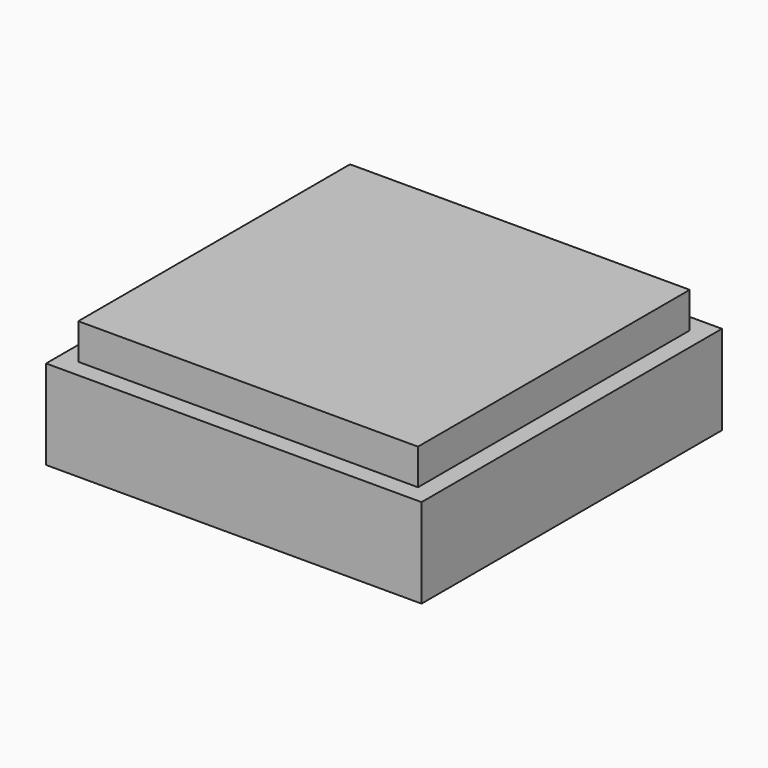
from build123d import *

# Parameters (mm, degrees)
SKETCH_W     = 42
SKETCH_H     = 42
SKETCH_R     = 6
PAD_DEPTH    = 10
SKETCH001_W  = 38
SKETCH001_H  = 38
PAD001_DEPTH = 4


with BuildPart() as part:
    # Sketch → Pad (new body)
    with BuildSketch(Plane.XY):
        Rectangle(SKETCH_W, SKETCH_H)
        Circle(SKETCH_R, mode=Mode.SUBTRACT)
    extrude(amount=PAD_DEPTH)

    # Sketch001 (on Face7 of Pad) → Pad001 (join)
    with BuildSketch(Plane.XY.offset(10)):
        Rectangle(SKETCH001_W, SKETCH001_H)
    extrude(amount=PAD001_DEPTH)


solid = part.part
